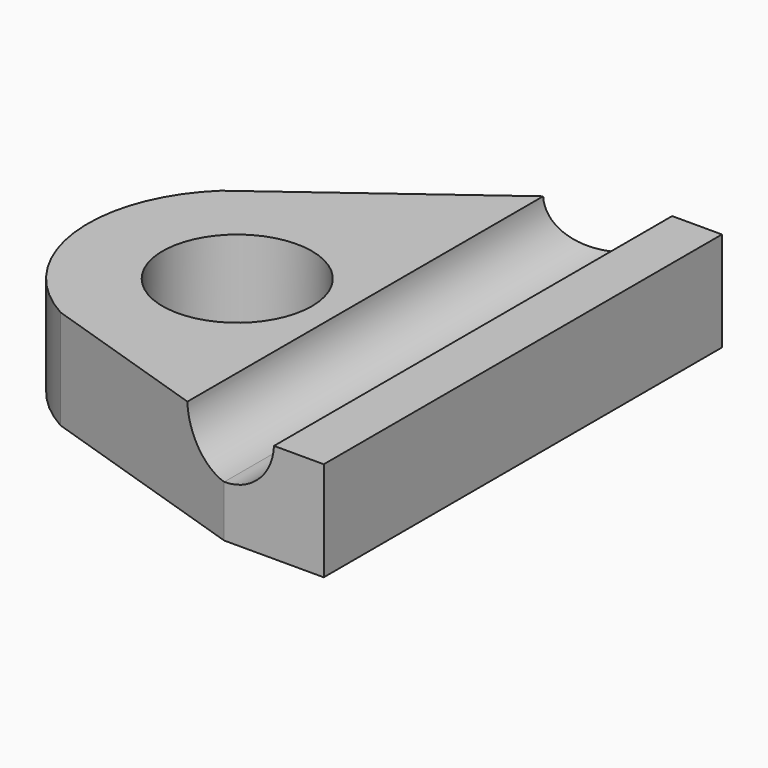
from build123d import *

# Parameters (mm, degrees)
F0_R     = 1.5
F1_DEPTH = 2
F3_DEPTH = 25


with BuildPart() as f1:
    # F0 (on Top) → F1 (new body)
    with BuildSketch(Plane.XY):
        with BuildLine():
            Line((3, 5.923091), (-2.069406, 2.171994))
            ThreePointArc((-2.069406, 2.171994), (-2.975198, -0.384963), (-1.448438, -2.627171))
            Line((-1.448438, -2.627171), (3, -4.076909))
            Line((3, -4.076909), (5, -4.076909))
            Line((5, -4.076909), (5, 5.923091))
            Line((5, 5.923091), (3, 5.923091))
        make_face()
        Circle(F0_R, mode=Mode.SUBTRACT)
    extrude(amount=F1_DEPTH)

    # F2 (on face) → F3 (cut)
    with BuildSketch(Plane(origin=(0, 5.923091, 0), x_dir=(-1, 0, 0), z_dir=(0, 1, 0))):
        with BuildLine():
            Line((-3, 2), (-4, 2))
            ThreePointArc((-4, 2), (-3.694191, 1.316813), (-3, 1.036878))
            Line((-3, 1.036878), (-3, 2))
        make_face()
        with BuildLine():
            Line((-2, 2.075168), (-4, 2))
            Line((-4, 2), (-3, 2))
            Line((-3, 2), (-3, 1.036878))
            ThreePointArc((-3, 1.036878), (-2.279228, 1.343393), (-2, 2.075168))
        make_face()
    extrude(amount=-F3_DEPTH, mode=Mode.SUBTRACT)


solid = f1.part
